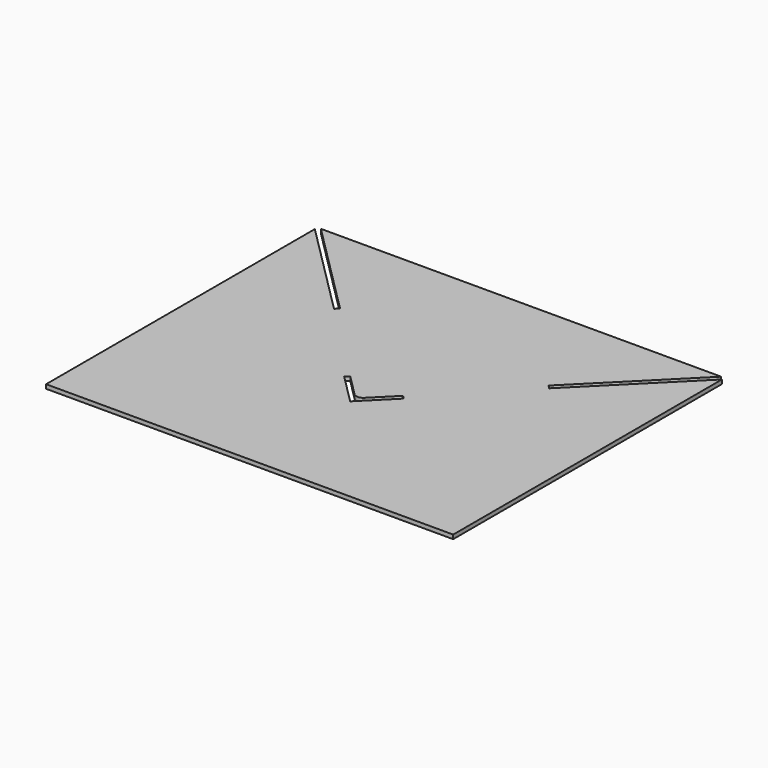
from build123d import *

# Parameters (mm, degrees)
F1_DEPTH = 3


with BuildPart() as f1:
    # F0 (on Top) → F1 (new body)
    with BuildSketch(Plane.XY):
        Polygon((76.814448, 12.990979), (147.5, 83.676531), (-147.5, 83.676531), (-76.814448, 12.990979), (-79.289322, 10.516105), (-150, 81.226783), (-150, -166.323469), (150, -166.323469), (150, 81.226783), (79.289322, 10.516105), align=None)
        with BuildLine():
            Line((-21.92031, -51.802654), (-19.445436, -49.32778))
            Line((-19.445436, -49.32778), (-3.535534, -65.237683))
            ThreePointArc((-3.535534, -65.237683), (0, -66.702149), (3.535534, -65.237683))
            Line((3.535534, -65.237683), (19.445436, -49.32778))
            Line((19.445436, -49.32778), (21.92031, -51.802654))
            Line((21.92031, -51.802654), (0, -73.722964))
            Line((0, -73.722964), (-21.92031, -51.802654))
        make_face(mode=Mode.SUBTRACT)
    extrude(amount=F1_DEPTH)


solid = f1.part
